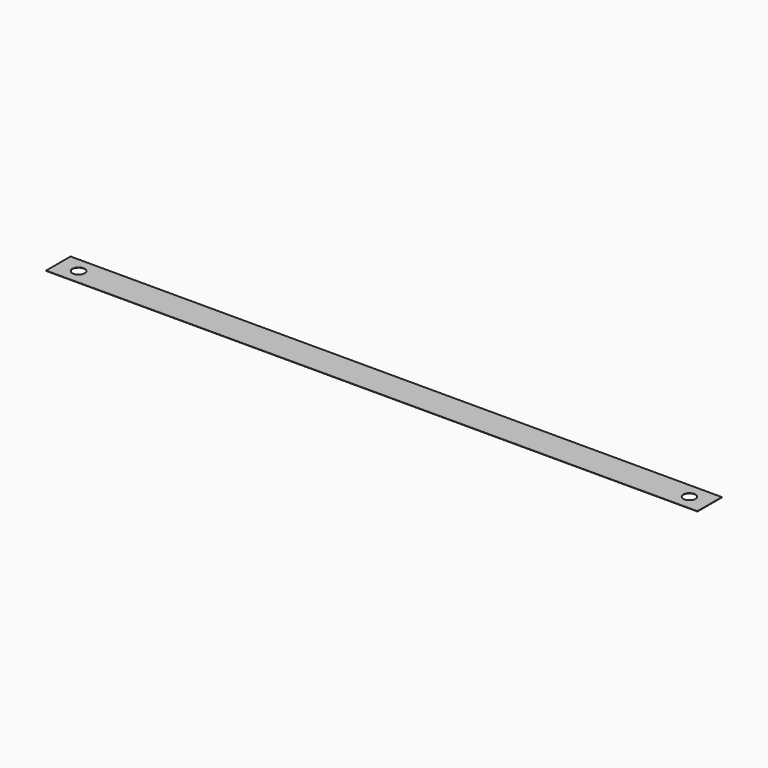
from build123d import *

# Parameters (mm, degrees)
F0_R     = 0.502992
F1_DEPTH = 0.0254


with BuildPart() as f1:
    # F0 (on Top) → F1 (new body)
    with BuildSketch(Plane.XY):
        Polygon((0, 1.27), (0, 0), (54.1528, 0), (54.1528, 1.27), (54.1528, 2.54), (0, 2.54), align=None)
        with BuildLine():
            ThreePointArc((2.195511, 1.27), (1.68583, 0.760319), (1.17615, 1.27))
            ThreePointArc((1.17615, 1.27), (1.68583, 1.779681), (2.195511, 1.27))
        make_face(mode=Mode.SUBTRACT)
        with Locations((52.469801, 1.27)):
            Circle(F0_R, mode=Mode.SUBTRACT)
    extrude(amount=F1_DEPTH)


solid = f1.part
